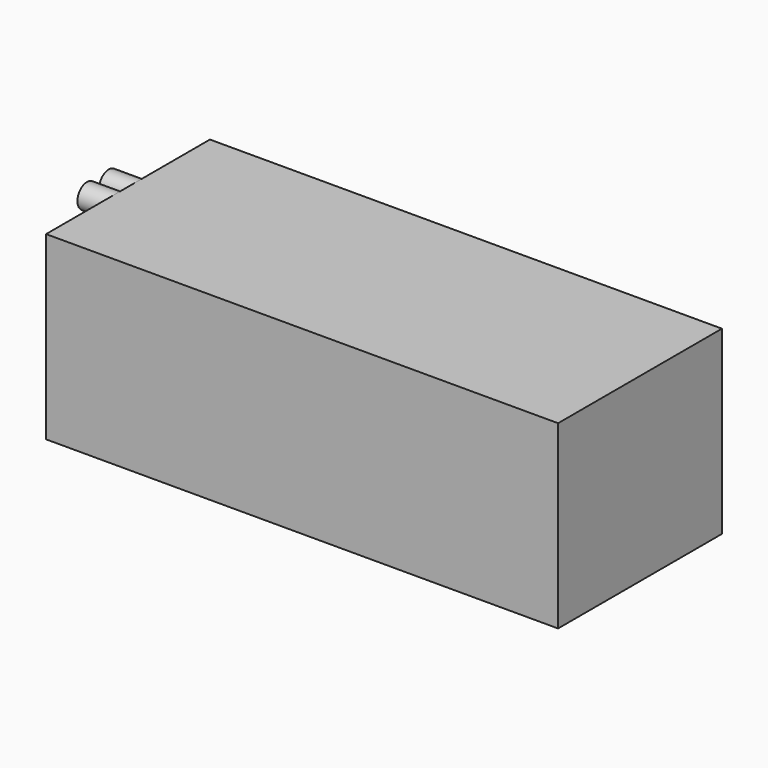
from build123d import *

# Parameters (mm, degrees)
F0_W     = 170
F0_H     = 68
F1_DEPTH = 60
F2_R     = 4
F3_DEPTH = 10


with BuildPart() as f1:
    # F0 (on Top) → F1 (new body)
    with BuildSketch(Plane.XY):
        Rectangle(F0_W, F0_H)
    extrude(amount=F1_DEPTH)

    # F2 (on face) → F3 (join)
    with BuildSketch(Plane(origin=(-85, 0, 0), x_dir=(0, -1, 0), z_dir=(-1, 0, 0))):
        with Locations((4.5, 56)):
            Circle(F2_R)
        with Locations((-4.5, 56)):
            Circle(F2_R)
    extrude(amount=F3_DEPTH)


solid = f1.part
